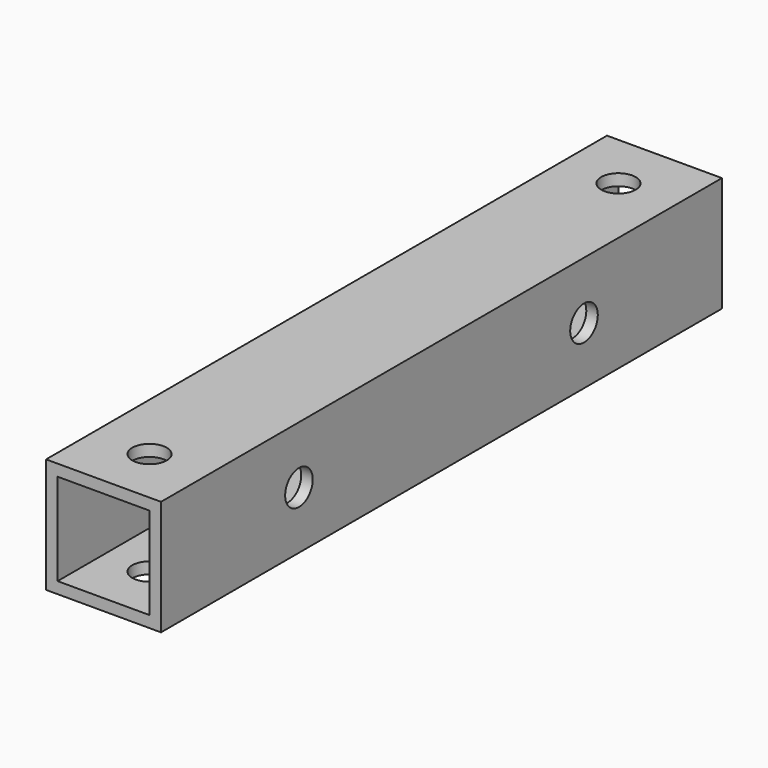
from build123d import *

# Parameters (mm, degrees)
F0_W     = 10
F0_H     = 10
F0_W_2   = 8
F0_H_2   = 8
F1_DEPTH = 61
F2_R     = 1.5
F3_DEPTH = 25
F4_R     = 1.5
F5_DEPTH = 25


with BuildPart() as f1:
    # F0 (on Front) → F1 (new body)
    with BuildSketch(Plane.XZ):
        Rectangle(F0_W, F0_H)
        Rectangle(F0_W_2, F0_H_2, mode=Mode.SUBTRACT)
    extrude(amount=F1_DEPTH)

    # F2 (on face) → F3 (cut)
    with BuildSketch(Plane.XY.offset(5)):
        with Locations((0, -5)):
            Circle(F2_R)
        with Locations((0, -56)):
            Circle(F2_R)
    extrude(amount=-F3_DEPTH, mode=Mode.SUBTRACT)

    # F4 (on face) → F5 (cut)
    with BuildSketch(Plane.YZ.offset(5)):
        with Locations((-46, 0)):
            Circle(F4_R)
        with Locations((-15, 0)):
            Circle(F4_R)
    extrude(amount=-F5_DEPTH, mode=Mode.SUBTRACT)


solid = f1.part
